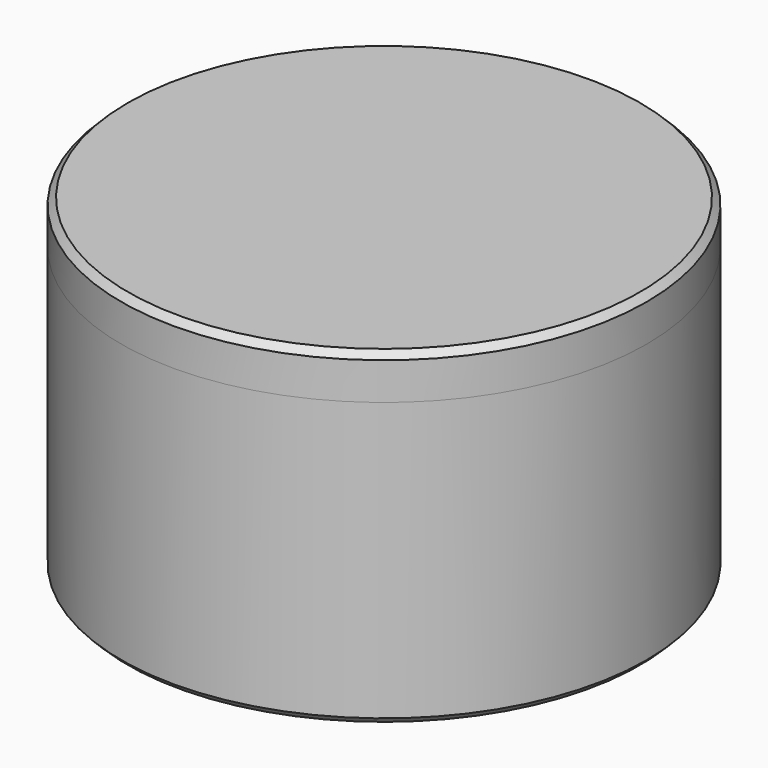
from build123d import *

# Parameters (mm, degrees)
F0_W    = 26
F0_H    = 10
F0_W_2  = 20.5
F4_SIZE = 1.5
F5_SIZE = 1.5
F6_SIZE = 1


with BuildPart() as f1:
    # F0 (on Front) → F1 (revolve)
    with BuildSketch(Plane.XZ):
        Polygon((-60, 30), (-60, 20), (-46.5, 20), (-46.5, 30), (-50, 30), align=None)
        Polygon((-60, -30), (0, -30), (0, -17), (-14.25, -17), (-14.25, 1), (-27.5, 1), (-46.5, 20), (-60, 20), align=None)
        Polygon((-55, 35), (-60, 35), (-60, 30), (-50, 30), align=None)
    revolve(axis=Axis((0, 0, 13.6922076344), (0, 0, -1)))

    # F5
    f5_edges = [f1.edges().sort_by_distance(p)[0] for p in [
        (60, 0, -30),
    ]]
    chamfer(f5_edges, length=F5_SIZE)

    # F6
    f6_edges = [f1.edges().sort_by_distance(p)[0] for p in [
        (14.25, 0, 1),
    ]]
    chamfer(f6_edges, length=F6_SIZE)


with BuildPart() as f2:
    # F0 (on Front) → F2 (revolve)
    with BuildSketch(Plane.XZ):
        with Locations((-13, 25)):
            Rectangle(F0_W, F0_H)
        Polygon((0, -12), (0, 20), (-26, 20), (-26, 8), (-23, 5), (-10.25, 5), (-10.25, -12), align=None)
        Polygon((0, 30), (0, 45), (-60, 45), (-60, 35), (-55, 35), (-50, 30), (-46.5, 30), (-26, 30), align=None)
    revolve(axis=Axis((0, 0, 13.6922076344), (0, 0, -1)))

    # F4
    f4_edges = [f2.edges().sort_by_distance(p)[0] for p in [
        (60, 0, 45),
    ]]
    chamfer(f4_edges, length=F4_SIZE)


with BuildPart() as f3:
    # F0 (on Front) → F3 (revolve)
    with BuildSketch(Plane.XZ):
        with Locations((-36.25, 25)):
            Rectangle(F0_W_2, F0_H)
        Polygon((-14.25, -17), (0, -17), (0, -12), (-10.25, -12), (-10.25, 5), (-23, 5), (-26, 8), (-26, 20), (-46.5, 20), (-27.5, 1), (-14.25, 1), align=None)
    revolve(axis=Axis((0, 0, 13.6922076344), (0, 0, -1)))


solid = Compound([f1.part, f2.part, f3.part])
